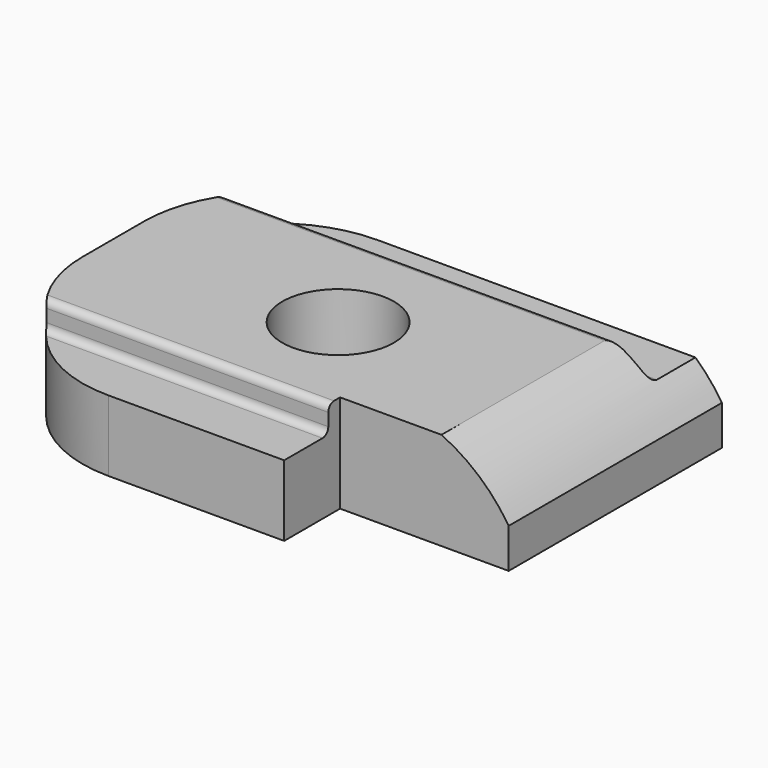
from build123d import *

# Parameters (mm, degrees)
F0_R     = 1.9685
F1_DEPTH = 3.4544
F2_W     = 1.9558
F2_H     = 0.9525
F2_W_2   = 1.9431
F3_DEPTH = 16.7142
F5_DEPTH = 12.7
F6_R     = 0.254


with BuildPart() as f1:
    # F0 (on Top) → F1 (new body)
    with BuildSketch(Plane.XY):
        with BuildLine():
            Line((8.3566, 5.9309), (-3.7846, 5.9309))
            ThreePointArc((-3.7846, 5.9309), (-7.0174922036, 4.5917922036), (-8.3566, 1.3589))
            Line((-8.3566, 1.3589), (-8.3566, -1.3589))
            ThreePointArc((-8.3566, -1.3589), (-7.0174922036, -4.5917922036), (-3.7846, -5.9309))
            Line((-3.7846, -5.9309), (2.413, -5.9309))
            Line((2.413, -5.9309), (2.413, -3.4671))
            Line((2.413, -3.4671), (8.3566, -3.4671))
            Line((8.3566, -3.4671), (8.3566, 5.9309))
        make_face()
        with Locations((-0.4318, 0)):
            Circle(F0_R, mode=Mode.SUBTRACT)
    extrude(amount=F1_DEPTH)

    # F2 (on face) → F3 (cut, through all)
    with BuildSketch(Plane.YZ.offset(8.3566)):
        with Locations((4.953, 2.97815)):
            Rectangle(F2_W, F2_H)
        with Locations((-4.95935, 2.97815)):
            Rectangle(F2_W_2, F2_H)
    extrude(amount=-F3_DEPTH, mode=Mode.SUBTRACT)

    # F4 (on Front) → F5 (cut, symmetric)
    with BuildSketch(Plane.XZ):
        with BuildLine():
            Line((8.3566, 1.3984937485), (8.3566, 3.4544))
            Line((8.3566, 3.4544), (5.985548453, 3.4544))
            ThreePointArc((5.985548453, 3.4544), (7.3183634134, 2.596313693), (8.3566, 1.3984937485))
        make_face()
    extrude(amount=F5_DEPTH, both=True, mode=Mode.SUBTRACT)

    # F6
    f6_edges = [f1.edges().sort_by_distance(p)[0] for p in [
        (-2.556099, -3.9878, 3.4544),
        (-0.774271, 3.9751, 3.4544),
        (-2.556099, -3.9878, 2.5019),
        (-0.054799, 3.9751, 2.5019),
    ]]
    fillet(f6_edges, radius=F6_R)

    # F7 (on Front) → F8 (revolve, cut)
    with BuildSketch(Plane.XZ):
        Polygon((-2.4003, 0.6604), (-2.7815821178, 0), (-0.4318, 0), (-0.4318, 0.6604), align=None)
    revolve(axis=Axis((-0.4318, 0, 0.3302), (0, 0, 1)), mode=Mode.SUBTRACT)


solid = f1.part
